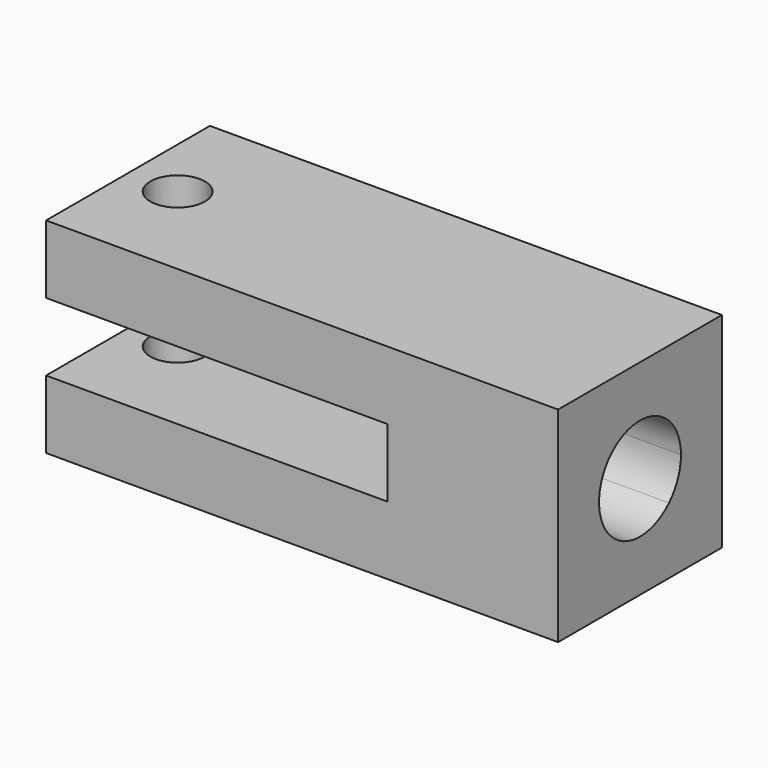
from build123d import *

# Parameters (mm, degrees)
F1_DEPTH = 6
F3_DEPTH = 5
F4_R     = 0.8
F5_DEPTH = 25


with BuildPart() as f1:
    # F0 (on Front) → F1 (new body)
    with BuildSketch(Plane.XZ):
        Polygon((-62.6351881424, 2.6772396487), (-77.6351881424, 2.6772396487), (-77.6351881424, 0.6772396487), (-67.6351881424, 0.6772396487), (-67.6351881424, -1.3227603513), (-77.6351881424, -1.3227603513), (-77.6351881424, -3.3227603513), (-62.6351881424, -3.3227603513), align=None)
    extrude(amount=F1_DEPTH)

    # F2 (on face) → F3 (cut)
    with BuildSketch(Plane.YZ.offset(-62.6351881424)):
        with BuildLine():
            Line((-1.9393398282, -1.3834205231), (-3, -0.3227603513))
            Line((-3, -0.3227603513), (-4.0606601718, -1.3834205231))
            ThreePointArc((-4.0606601718, -1.3834205231), (-3, -1.8227603513), (-1.9393398282, -1.3834205231))
        make_face()
        with BuildLine():
            Line((-1.9393398282, 0.7378998205), (-3, -0.3227603513))
            Line((-3, -0.3227603513), (-1.9393398282, -1.3834205231))
            ThreePointArc((-1.9393398282, -1.3834205231), (-1.6141807012, -0.8967854998), (-1.5, -0.3227603513))
            ThreePointArc((-1.5, -0.3227603513), (-1.6141807012, 0.2512647973), (-1.9393398282, 0.7378998205))
        make_face()
        with BuildLine():
            ThreePointArc((-1.9393398282, 0.7378998205), (-3, 1.1772396487), (-4.0606601718, 0.7378998205))
            Line((-4.0606601718, 0.7378998205), (-3, -0.3227603513))
            Line((-3, -0.3227603513), (-1.9393398282, 0.7378998205))
        make_face()
        with BuildLine():
            Line((-3, -0.3227603513), (-4.0606601718, 0.7378998205))
            ThreePointArc((-4.0606601718, 0.7378998205), (-4.5, -0.3227603513), (-4.0606601718, -1.3834205231))
            Line((-4.0606601718, -1.3834205231), (-3, -0.3227603513))
        make_face()
    extrude(amount=-F3_DEPTH, mode=Mode.SUBTRACT)

    # F4 (on face) → F5 (cut)
    with BuildSketch(Plane(origin=(0, 0, -3.3227603513), x_dir=(1, 0, 0), z_dir=(0, 0, -1))):
        with Locations((-76.1807858944, 3)):
            Circle(F4_R)
    extrude(amount=-F5_DEPTH, mode=Mode.SUBTRACT)


solid = f1.part
